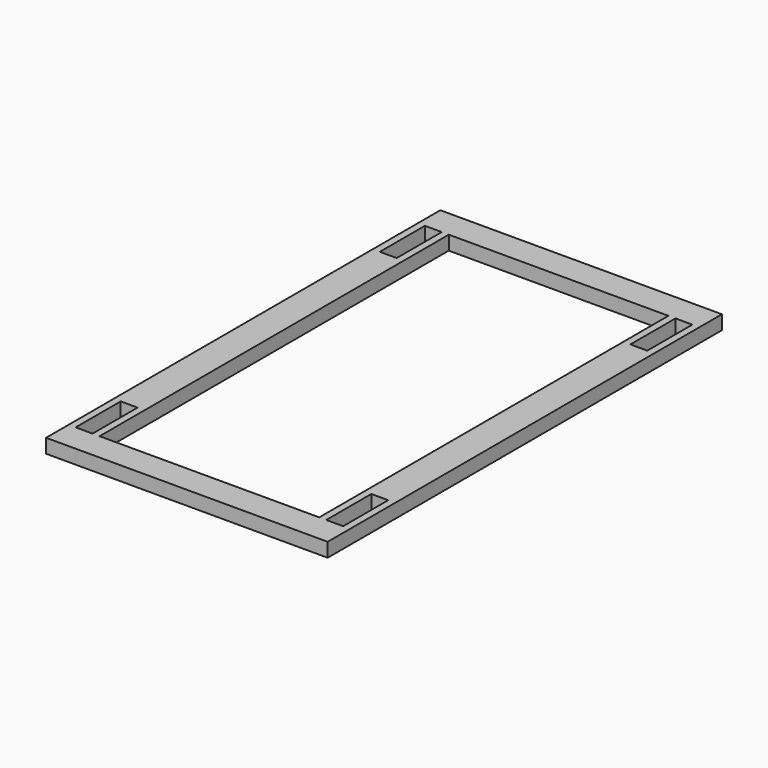
from build123d import *

# Parameters (mm, degrees)
F0_W     = 100
F0_H     = 175
F0_W_2   = 6
F0_H_2   = 20
F0_W_3   = 78
F0_H_3   = 155
F1_DEPTH = 5


with BuildPart() as f1:
    # F0 (on Top) → F1 (new body)
    with BuildSketch(Plane.XY):
        Rectangle(F0_W, F0_H)
        with Locations((-44.5, -67.5)):
            Rectangle(F0_W_2, F0_H_2, mode=Mode.SUBTRACT)
        with Locations((44.5, -67.5)):
            Rectangle(F0_W_2, F0_H_2, mode=Mode.SUBTRACT)
        with Locations((-44.5, 67.5)):
            Rectangle(F0_W_2, F0_H_2, mode=Mode.SUBTRACT)
        Rectangle(F0_W_3, F0_H_3, mode=Mode.SUBTRACT)
        with Locations((44.5, 67.5)):
            Rectangle(F0_W_2, F0_H_2, mode=Mode.SUBTRACT)
    extrude(amount=F1_DEPTH)


solid = f1.part
